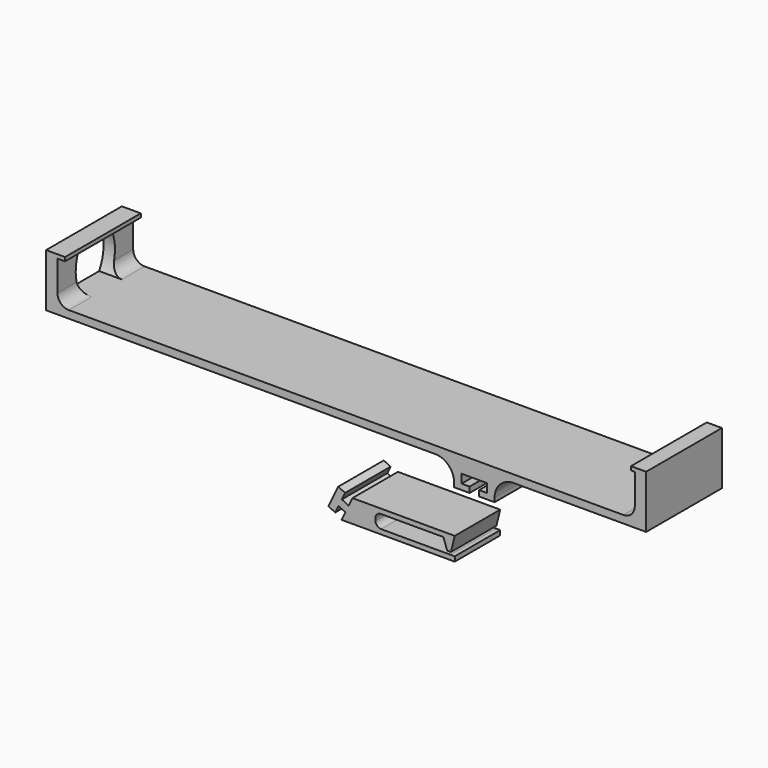
from build123d import *

# Parameters (mm, degrees)
F1_DEPTH = 15
F2_DEPTH = 25
F4_DEPTH = 6


with BuildPart() as f1:
    # F0 (on Front) → F1 (new body)
    with BuildSketch(Plane.XZ):
        with BuildLine():
            Line((11.007484, 2.100922), (10, 0))
            Line((10, 0), (36.969838, 0))
            Line((36.969838, 0), (39.877263, 0))
            Line((39.877263, 0), (39.877263, 1.241399))
            Line((39.877263, 1.241399), (38.709009, 1.241879))
            Line((38.709009, 1.241879), (38.119937, 1.242122))
            Line((38.119937, 1.242122), (20.430198, 1.249399))
            ThreePointArc((20.430198, 1.249399), (19.38408, 1.674995), (18.931342, 2.709656))
            Line((18.931342, 2.709656), (18.918073, 3.210257))
            ThreePointArc((18.918073, 3.210257), (19.342927, 4.296514), (20.417547, 4.75))
            Line((20.417547, 4.75), (36.877263, 4.75))
            Line((36.877263, 4.75), (37.877263, 1.927152))
            Line((37.877263, 1.927152), (38.877263, 1.927152))
            Line((38.877263, 1.927152), (39.877263, 6))
            Line((39.877263, 6), (12.877263, 6))
            Line((12.877263, 6), (11.872278, 3.904289))
            Line((11.872278, 3.904289), (10.068911, 4.769083))
            Line((10.068911, 4.769083), (10.933704, 6.57245))
            Line((10.933704, 6.57245), (9.130337, 7.437243))
            Line((9.130337, 7.437243), (6.535957, 2.027142))
            Line((6.535957, 2.027142), (8.339324, 1.162349))
            Line((8.339324, 1.162349), (9.204117, 2.965716))
            Line((9.204117, 2.965716), (11.007484, 2.100922))
        make_face()
    extrude(amount=F1_DEPTH)


with BuildPart() as f2:
    # F0 (on Front) → F2 (new body)
    with BuildSketch(Plane.XZ):
        with BuildLine():
            Line((-60, 44), (-60, 30))
            Line((-60, 30), (42.7, 30))
            ThreePointArc((42.7, 30), (46.235534, 28.535534), (47.7, 25))
            Line((47.7, 25), (47.7, 23.9))
            Line((47.7, 23.9), (51.8, 23.9))
            Line((51.8, 23.9), (51.8, 25.4))
            Line((51.8, 25.4), (49.7, 25.4))
            Line((49.7, 25.4), (49.7, 27.7))
            Line((49.7, 27.7), (56.4, 27.7))
            Line((56.4, 27.7), (56.4, 25.4))
            Line((56.4, 25.4), (54.3, 25.4))
            Line((54.3, 25.4), (54.3, 23.9))
            Line((54.3, 23.9), (58.4, 23.9))
            Line((58.4, 23.9), (58.4, 25))
            ThreePointArc((58.4, 25), (59.864466, 28.535534), (63.4, 30))
            Line((63.4, 30), (98.4, 30))
            Line((98.4, 30), (98.4, 44))
            Line((98.4, 44), (94.4, 44))
            Line((94.4, 44), (94.4, 43))
            Line((94.4, 43), (95.4, 43))
            Line((95.4, 43), (95.4, 35))
            ThreePointArc((95.4, 35), (94.52132, 32.87868), (92.4, 32))
            Line((92.4, 32), (-54, 32))
            ThreePointArc((-54, 32), (-56.12132, 32.87868), (-57, 35))
            Line((-57, 35), (-57, 43))
            Line((-57, 43), (-55, 43))
            Line((-55, 43), (-55, 44))
            Line((-55, 44), (-60, 44))
        make_face()
    extrude(amount=F2_DEPTH)

    # F3 (on face) → F4 (cut)
    with BuildSketch(Plane(origin=(-60, 0, 0), x_dir=(0, -1, 0), z_dir=(-1, 0, 0))):
        with BuildLine():
            Line((7.5, 32), (17.5, 32))
            ThreePointArc((17.5, 32), (18.973721, 37.5), (17.5, 43))
            Line((17.5, 43), (7.5, 43))
            ThreePointArc((7.5, 43), (6.026279, 37.5), (7.5, 32))
        make_face()
    extrude(amount=-F4_DEPTH, mode=Mode.SUBTRACT)


solid = Compound([f1.part, f2.part])
